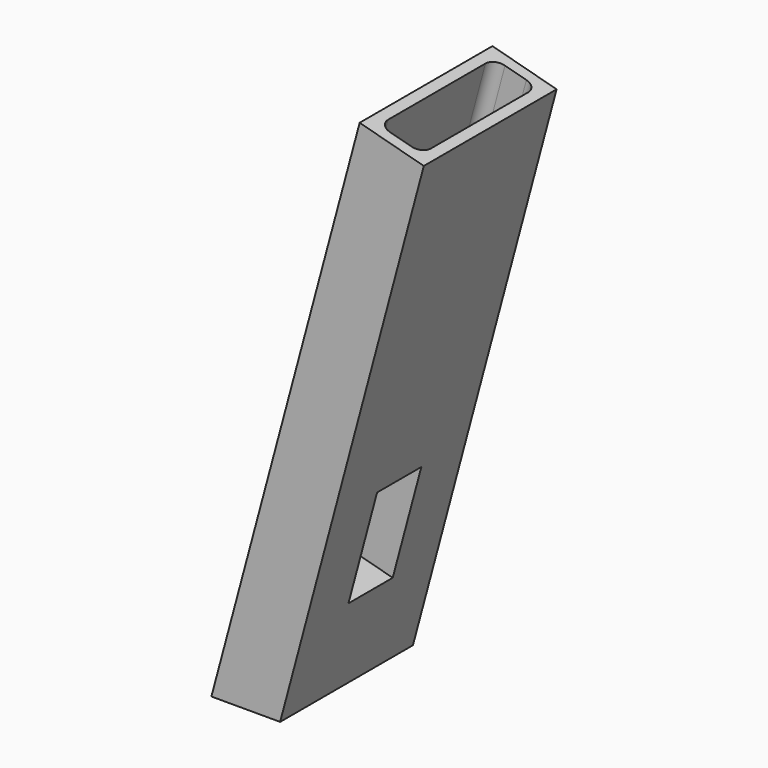
from build123d import *

# Parameters (mm, degrees)
F1_DEPTH = 15
F3_START = -45
F2_R     = 1.5
F3_DEPTH = 10
F4_W     = 4
F4_H     = 13
F5_DEPTH = 30
F6_W     = 5
F6_H     = 10
F7_DEPTH = 18.5400284665
F8_R     = 1


with BuildPart() as f1:
    # F0 (on Front) → F1 (new body)
    with BuildSketch(Plane.XZ):
        Polygon((13.3974596216, 50), (0, 0), (6.2116570825, 0), (19.1930145793, 48.4470857294), align=None)
    extrude(amount=F1_DEPTH)

    # F2 (on face) → F3 (cut)
    with BuildSketch(Plane(origin=(13.3974596216, 0, 50), x_dir=(0.9659258263, 0, -0.2588190451), z_dir=(0.2588190451, 0, 0.9659258263)).offset(F3_START)):
        with Locations((3, -12.5)):
            Circle(F2_R)
        with Locations((3, -2.5)):
            Circle(F2_R)
    extrude(amount=-F3_DEPTH, mode=Mode.SUBTRACT)

    # F4 (on face) → F5 (cut)
    with BuildSketch(Plane(origin=(13.3974596216, 0, 50), x_dir=(0.9659258263, 0, -0.2588190451), z_dir=(0.2588190451, 0, 0.9659258263))):
        with Locations((3, -7.5)):
            Rectangle(F4_W, F4_H)
    extrude(amount=-F5_DEPTH, mode=Mode.SUBTRACT)

    # F6 (on face) → F7 (cut, through all)
    with BuildSketch(Plane(origin=(0, 0, 0), x_dir=(0, -1, 0), z_dir=(-0.9659258263, 0, 0.2588190451))):
        with Locations((7.5, 15)):
            Rectangle(F6_W, F6_H)
    extrude(amount=-F7_DEPTH, mode=Mode.SUBTRACT)

    # F8
    f8_edges = [f1.edges().sort_by_distance(p)[0] for p in [
        (10.4811, -1, 35.252294),
        (14.344803, -14, 34.217017),
        (10.4811, -14, 35.252294),
        (14.344803, -1, 34.217017),
    ]]
    fillet(f8_edges, radius=F8_R)


solid = f1.part
